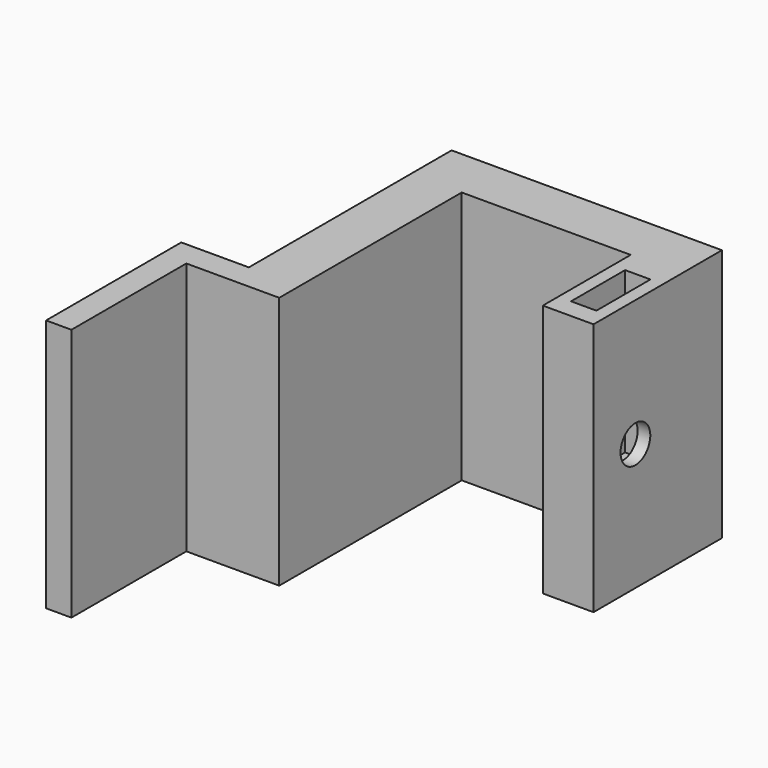
from build123d import *

# Parameters (mm, degrees)
F3_DEPTH = 30
F4_R     = 2.2
F5_DEPTH = 6
F6_W     = 3
F6_H     = 8
F7_DEPTH = 19


with BuildPart() as f3:
    # F2 (on Top) → F3 (new body)
    with BuildSketch(Plane.XY):
        Polygon((0, 13), (0, 0), (6, 0), (6, 19), (-26, 19), (-26, -11), (-34, -11), (-34, -31), (-31, -31), (-31, -14), (-20, -14), (-20, 13), align=None)
    extrude(amount=F3_DEPTH)

    # F4 (on face) → F5 (cut)
    with BuildSketch(Plane(origin=(0, 0, 0), x_dir=(0, -1, 0), z_dir=(-1, 0, 0))):
        with Locations((-6.2, 15)):
            Circle(F4_R)
    extrude(amount=-F5_DEPTH, mode=Mode.SUBTRACT)

    # F6 (on face) → F7 (cut)
    with BuildSketch(Plane.XY.offset(30)):
        with Locations((3, 6.3)):
            Rectangle(F6_W, F6_H)
    extrude(amount=-F7_DEPTH, mode=Mode.SUBTRACT)


solid = f3.part
